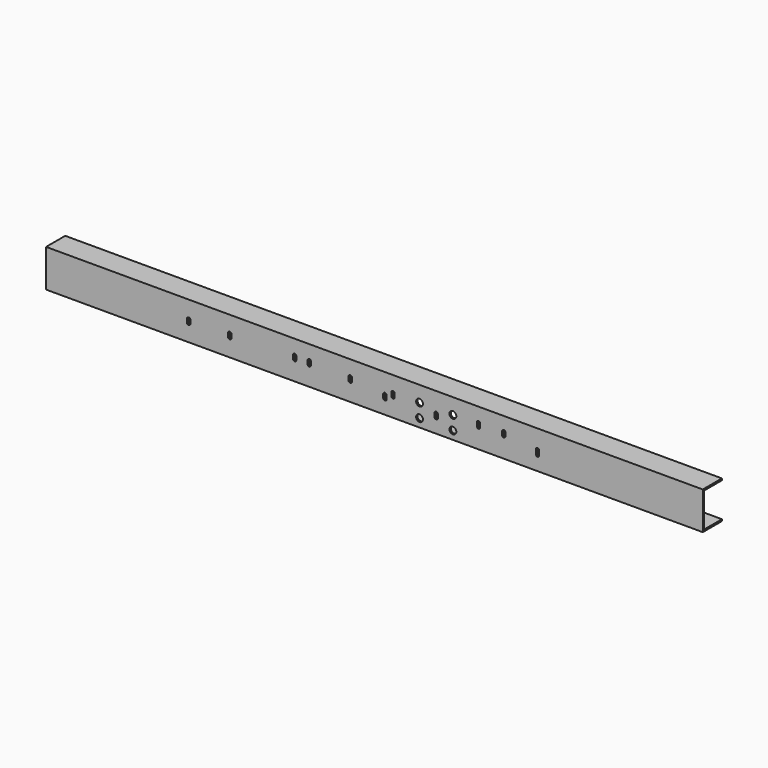
from build123d import *

# Parameters (mm, degrees)
F0_W     = 88.9
F0_H     = 139.7
F1_DEPTH = 1219.2
F2_W     = 82.55
F2_H     = 127
F3_DEPTH = 2438.401
F4_R     = 12.7
F5_DEPTH = 88.901


with BuildPart() as f1:
    # F0 (on Right) → F1 (new body, symmetric)
    with BuildSketch(Plane.YZ):
        Rectangle(F0_W, F0_H)
    extrude(amount=F1_DEPTH, both=True)

    # F2 (on face) → F3 (cut, through all)
    with BuildSketch(Plane(origin=(-1219.2, 0, 0), x_dir=(0, -1, 0), z_dir=(-1, 0, 0))):
        with Locations((-3.175, 0)):
            Rectangle(F2_W, F2_H)
    extrude(amount=-F3_DEPTH, mode=Mode.SUBTRACT)

    # F4 (on face) → F5 (cut, through all)
    with BuildSketch(Plane.XZ.offset(44.45)):
        with BuildLine():
            ThreePointArc((-689.7858705791, 11.6012184261), (-694.2759986397, 9.7413464866), (-696.1358705791, 5.2512184261))
            Line((-696.1358705791, 5.2512184261), (-696.1358705791, -7.4487815739))
            ThreePointArc((-696.1358705791, -7.4487815739), (-694.2759986397, -11.9389096344), (-689.7858705791, -13.7987815739))
            ThreePointArc((-689.7858705791, -13.7987815739), (-685.2957425186, -11.9389096344), (-683.4358705791, -7.4487815739))
            Line((-683.4358705791, -7.4487815739), (-683.4358705791, 5.2512184261))
            ThreePointArc((-683.4358705791, 5.2512184261), (-685.2957425186, 9.7413464866), (-689.7858705791, 11.6012184261))
        make_face()
        with BuildLine():
            ThreePointArc((-537.3858705791, 14.7762184261), (-541.8759986397, 12.9163464866), (-543.7358705791, 8.4262184261))
            Line((-543.7358705791, 8.4262184261), (-543.7358705791, -4.2737815739))
            ThreePointArc((-543.7358705791, -4.2737815739), (-541.8759986397, -8.7639096344), (-537.3858705791, -10.6237815739))
            ThreePointArc((-537.3858705791, -10.6237815739), (-532.8957425186, -8.7639096344), (-531.0358705791, -4.2737815739))
            Line((-531.0358705791, -4.2737815739), (-531.0358705791, 8.4262184261))
            ThreePointArc((-531.0358705791, 8.4262184261), (-532.8957425186, 12.9163464866), (-537.3858705791, 14.7762184261))
        make_face()
        with BuildLine():
            ThreePointArc((-296.0858705791, 21.3802184261), (-300.5759986397, 19.5203464866), (-302.4358705791, 15.0302184261))
            Line((-302.4358705791, 15.0302184261), (-302.4358705791, 2.3302184261))
            ThreePointArc((-302.4358705791, 2.3302184261), (-300.5759986397, -2.1599096344), (-296.0858705791, -4.0197815739))
            ThreePointArc((-296.0858705791, -4.0197815739), (-291.5957425186, -2.1599096344), (-289.7358705791, 2.3302184261))
            Line((-289.7358705791, 2.3302184261), (-289.7358705791, 15.0302184261))
            ThreePointArc((-289.7358705791, 15.0302184261), (-291.5957425186, 19.5203464866), (-296.0858705791, 21.3802184261))
        make_face()
        with BuildLine():
            ThreePointArc((-242.1108705791, 21.3802184261), (-246.6009986397, 19.5203464866), (-248.4608705791, 15.0302184261))
            Line((-248.4608705791, 15.0302184261), (-248.4608705791, 2.3302184261))
            ThreePointArc((-248.4608705791, 2.3302184261), (-246.6009986397, -2.1599096344), (-242.1108705791, -4.0197815739))
            ThreePointArc((-242.1108705791, -4.0197815739), (-237.6207425186, -2.1599096344), (-235.7608705791, 2.3302184261))
            Line((-235.7608705791, 2.3302184261), (-235.7608705791, 15.0302184261))
            ThreePointArc((-235.7608705791, 15.0302184261), (-237.6207425186, 19.5203464866), (-242.1108705791, 21.3802184261))
        make_face()
        with BuildLine():
            ThreePointArc((-89.7108705791, 17.9512184261), (-94.2009986397, 16.0913464866), (-96.0608705791, 11.6012184261))
            Line((-96.0608705791, 11.6012184261), (-96.0608705791, -1.0987815739))
            ThreePointArc((-96.0608705791, -1.0987815739), (-94.2009986397, -5.5889096344), (-89.7108705791, -7.4487815739))
            ThreePointArc((-89.7108705791, -7.4487815739), (-85.2207425186, -5.5889096344), (-83.3608705791, -1.0987815739))
            Line((-83.3608705791, -1.0987815739), (-83.3608705791, 11.6012184261))
            ThreePointArc((-83.3608705791, 11.6012184261), (-85.2207425186, 16.0913464866), (-89.7108705791, 17.9512184261))
        make_face()
        with BuildLine():
            ThreePointArc((38.8766294209, 2.0762184261), (34.3865013603, 0.2163464866), (32.5266294209, -4.2737815739))
            Line((32.5266294209, -4.2737815739), (32.5266294209, -16.9737815739))
            ThreePointArc((32.5266294209, -16.9737815739), (34.3865013603, -21.4639096344), (38.8766294209, -23.3237815739))
            ThreePointArc((38.8766294209, -23.3237815739), (43.3667574814, -21.4639096344), (45.2266294209, -16.9737815739))
            Line((45.2266294209, -16.9737815739), (45.2266294209, -4.2737815739))
            ThreePointArc((45.2266294209, -4.2737815739), (43.3667574814, 0.2163464866), (38.8766294209, 2.0762184261))
        make_face()
        with BuildLine():
            ThreePointArc((69.0391294209, 17.9512184261), (64.5490013603, 16.0913464866), (62.6891294209, 11.6012184261))
            Line((62.6891294209, 11.6012184261), (62.6891294209, -1.0987815739))
            ThreePointArc((62.6891294209, -1.0987815739), (64.5490013603, -5.5889096344), (69.0391294209, -7.4487815739))
            ThreePointArc((69.0391294209, -7.4487815739), (73.5292574814, -5.5889096344), (75.3891294209, -1.0987815739))
            Line((75.3891294209, -1.0987815739), (75.3891294209, 11.6012184261))
            ThreePointArc((75.3891294209, 11.6012184261), (73.5292574814, 16.0913464866), (69.0391294209, 17.9512184261))
        make_face()
        with BuildLine():
            ThreePointArc((229.3766294209, 2.0762184261), (224.8865013603, 0.2163464866), (223.0266294209, -4.2737815739))
            Line((223.0266294209, -4.2737815739), (223.0266294209, -16.9737815739))
            ThreePointArc((223.0266294209, -16.9737815739), (224.8865013603, -21.4639096344), (229.3766294209, -23.3237815739))
            ThreePointArc((229.3766294209, -23.3237815739), (233.8667574814, -21.4639096344), (235.7266294209, -16.9737815739))
            Line((235.7266294209, -16.9737815739), (235.7266294209, -4.2737815739))
            ThreePointArc((235.7266294209, -4.2737815739), (233.8667574814, 0.2163464866), (229.3766294209, 2.0762184261))
        make_face()
        with BuildLine():
            ThreePointArc((386.5391294209, 22.7137184261), (382.0490013603, 20.8538464866), (380.1891294209, 16.3637184261))
            Line((380.1891294209, 16.3637184261), (380.1891294209, 3.6637184261))
            ThreePointArc((380.1891294209, 3.6637184261), (382.0490013603, -0.8264096344), (386.5391294209, -2.6862815739))
            ThreePointArc((386.5391294209, -2.6862815739), (391.0292574814, -0.8264096344), (392.8891294209, 3.6637184261))
            Line((392.8891294209, 3.6637184261), (392.8891294209, 16.3637184261))
            ThreePointArc((392.8891294209, 16.3637184261), (391.0292574814, 20.8538464866), (386.5391294209, 22.7137184261))
        make_face()
        with BuildLine():
            ThreePointArc((480.2016294209, 24.3012184261), (475.7115013603, 22.4413464866), (473.8516294209, 17.9512184261))
            Line((473.8516294209, 17.9512184261), (473.8516294209, 5.2512184261))
            ThreePointArc((473.8516294209, 5.2512184261), (475.7115013603, 0.7610903656), (480.2016294209, -1.0987815739))
            ThreePointArc((480.2016294209, -1.0987815739), (484.6917574814, 0.7610903656), (486.5516294209, 5.2512184261))
            Line((486.5516294209, 5.2512184261), (486.5516294209, 17.9512184261))
            ThreePointArc((486.5516294209, 17.9512184261), (484.6917574814, 22.4413464866), (480.2016294209, 24.3012184261))
        make_face()
        with BuildLine():
            ThreePointArc((605.6141294209, 5.5687184261), (601.1240013603, 3.7088464866), (599.2641294209, -0.7812815739))
            Line((599.2641294209, -0.7812815739), (599.2641294209, -16.6562815739))
            ThreePointArc((599.2641294209, -16.6562815739), (601.1240013603, -21.1464096344), (605.6141294209, -23.0062815739))
            ThreePointArc((605.6141294209, -23.0062815739), (610.1042574814, -21.1464096344), (611.9641294209, -16.6562815739))
            Line((611.9641294209, -16.6562815739), (611.9641294209, -0.7812815739))
            ThreePointArc((611.9641294209, -0.7812815739), (610.1042574814, 3.7088464866), (605.6141294209, 5.5687184261))
        make_face()
        with Locations((167.4641294209, 11.6012184261)):
            Circle(F4_R)
        with Locations((291.2891294209, 11.6012184261)):
            Circle(F4_R)
        with Locations((291.2891294209, -39.1987815739)):
            Circle(F4_R)
        with Locations((167.4641294209, -39.1987815739)):
            Circle(F4_R)
    extrude(amount=-F5_DEPTH, mode=Mode.SUBTRACT)


solid = f1.part
